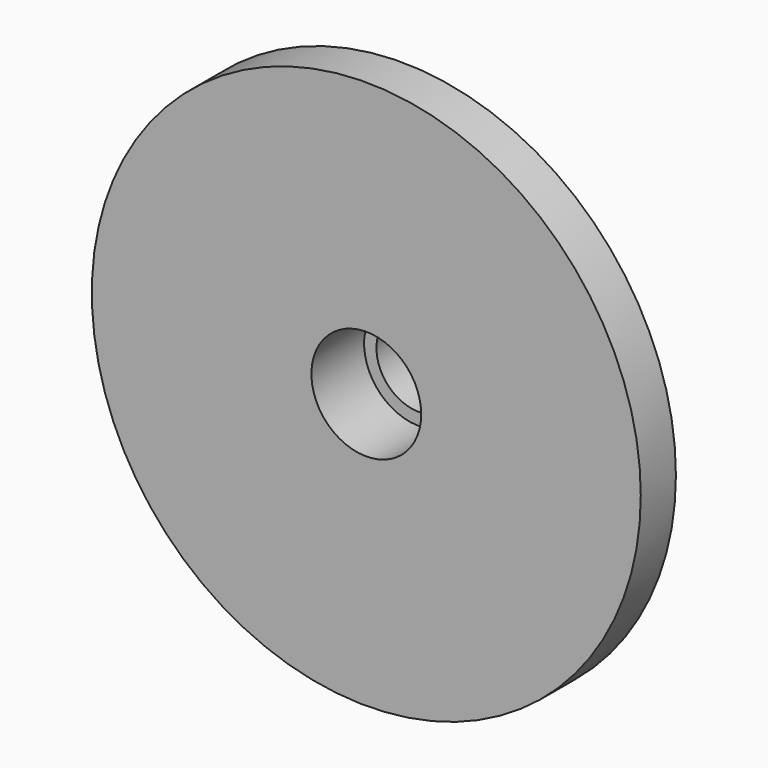
from build123d import *

# Parameters (mm, degrees)
F0_R     = 50
F1_DEPTH = 43
F2_R     = 144.3739928915
F2_R_2   = 50
F2_R_3   = 17
F3_DEPTH = 10
F4_R     = 61.7610309049
F5_DEPTH = 25
F6_R     = 10
F7_DEPTH = 12
F8_R     = 7.75
F9_DEPTH = 179


with BuildPart() as f1:
    # F0 (on Front) → F1 (new body)
    with BuildSketch(Plane.XZ):
        Circle(F0_R)
    extrude(amount=F1_DEPTH)

    # F2 (on face) → F3 (cut)
    with BuildSketch(Plane(origin=(0, 0, 0), x_dir=(-1, 0, 0), z_dir=(0, 1, 0))):
        Circle(F2_R)
        Circle(F2_R_2, mode=Mode.SUBTRACT)
        Circle(F2_R_2)
        Circle(F2_R_3, mode=Mode.SUBTRACT)
    extrude(amount=-F3_DEPTH, mode=Mode.SUBTRACT)

    # F4 (on face) → F5 (cut)
    with BuildSketch(Plane.XZ.offset(43)):
        Circle(F4_R)
    extrude(amount=-F5_DEPTH, mode=Mode.SUBTRACT)

    # F6 (on face) → F7 (cut)
    with BuildSketch(Plane.XZ.offset(18)):
        Circle(F6_R)
    extrude(amount=-F7_DEPTH, mode=Mode.SUBTRACT)

    # F8 (on Front) → F9 (cut)
    with BuildSketch(Plane.XZ):
        Circle(F8_R)
    extrude(amount=F9_DEPTH, mode=Mode.SUBTRACT)


solid = f1.part
